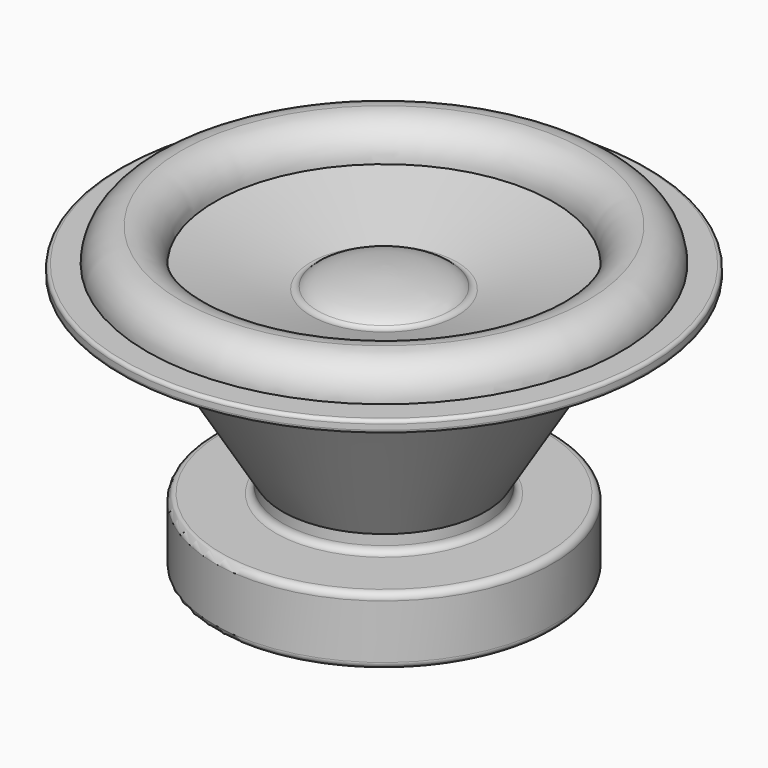
from build123d import *


with BuildPart() as f1:
    # F0 (on Front) → F1 (revolve)
    with BuildSketch(Plane.XZ):
        with BuildLine():
            Line((-50, 1.8), (0, 1.8))
            Line((0, 1.8), (0, 11.8))
            Line((0, 11.8), (-60, 11.8))
            ThreePointArc((-60, 11.8), (-67.0710678119, 8.8710678119), (-70, 1.8))
            Line((-70, 1.8), (-50, 1.8))
        make_face()
        with BuildLine():
            Line((0, -52.8), (0, -3.3))
            Line((0, -3.3), (-59.9800905789, -3.3))
            ThreePointArc((-59.9800905789, -3.3), (-59.9577584892, -3.3614505977), (-59.9275989158, -3.419461789))
            Line((-59.9275989158, -3.419461789), (-30, -52.8))
            Line((-30, -52.8), (0, -52.8))
        make_face()
        with BuildLine():
            Line((0, -82.8), (0, -52.8))
            Line((0, -52.8), (-30, -52.8))
            Line((-30, -52.8), (-30, -55.8))
            ThreePointArc((-30, -55.8), (-30.5857864376, -57.2142135624), (-32, -57.8))
            Line((-32, -57.8), (-48, -57.8))
            ThreePointArc((-48, -57.8), (-49.4142135624, -58.3857864376), (-50, -59.8))
            Line((-50, -59.8), (-50, -75.8))
            ThreePointArc((-50, -75.8), (-49.4142135624, -77.2142135624), (-48, -77.8))
            Line((-48, -77.8), (-32, -77.8))
            ThreePointArc((-32, -77.8), (-30.5857864376, -78.3857864376), (-30, -79.8))
            Line((-30, -79.8), (-30, -80.8))
            ThreePointArc((-30, -80.8), (-29.4142135624, -82.2142135624), (-28, -82.8))
            Line((-28, -82.8), (0, -82.8))
        make_face()
        with BuildLine():
            Line((0, 0), (0, 1.8))
            Line((0, 1.8), (-50, 1.8))
            Line((-50, 1.8), (-70, 1.8))
            Line((-70, 1.8), (-77, 1.8))
            ThreePointArc((-77, 1.8), (-77.7071067812, 1.5071067812), (-78, 0.8))
            Line((-78, 0.8), (-78, -0.8))
            ThreePointArc((-78, -0.8), (-77.7071067812, -1.5071067812), (-77, -1.8))
            Line((-77, -1.8), (-60.5, -1.8))
            Line((-60.5, -1.8), (-60, -1.8))
            Line((-60, -1.8), (0, -1.8))
            Line((0, -1.8), (0, 0))
        make_face()
        with BuildLine():
            Line((0, -3.3), (0, -1.8))
            Line((0, -1.8), (-60, -1.8))
            Line((-60, -1.8), (-60.5, -1.8))
            ThreePointArc((-60.5, -1.8), (-60.1464466094, -1.9464466094), (-60, -2.3))
            Line((-60, -2.3), (-60, -3.1603109309))
            ThreePointArc((-60, -3.1603109309), (-59.9949976209, -3.2308613049), (-59.9800905789, -3.3))
            Line((-59.9800905789, -3.3), (0, -3.3))
        make_face()
    revolve(axis=Axis((0, 0, -42.3), (0, 0, -1)))

    # F0 (on Front) → F2 (revolve, cut)
    with BuildSketch(Plane.XZ):
        with BuildLine():
            Line((0, 11.8), (0, 1.8))
            Line((0, 1.8), (0, 0))
            add(Edge.make_bspline(
                [(19.5781972069, -3.9785367686), (16.257009679, 0), (0, 0)],
                knots=[0.2057410594, 0.2057410594, 0.2057410594, 1.5707963268, 1.5707963268, 1.5707963268], degree=2, weights=[1, 0.7759808781, 1]))
            ThreePointArc((19.5781972069, -3.9785367686), (20.4727464508, -4.5914246678), (21.5556678276, -4.6473819591))
            Line((21.5556678276, -4.6473819591), (50, 1.8))
            ThreePointArc((50, 1.8), (52.9289321881, 8.8710678119), (60, 11.8))
            Line((60, 11.8), (0, 11.8))
        make_face()
    revolve(axis=Axis((0, 0, -42.3), (0, 0, -1)), mode=Mode.SUBTRACT)


solid = f1.part
